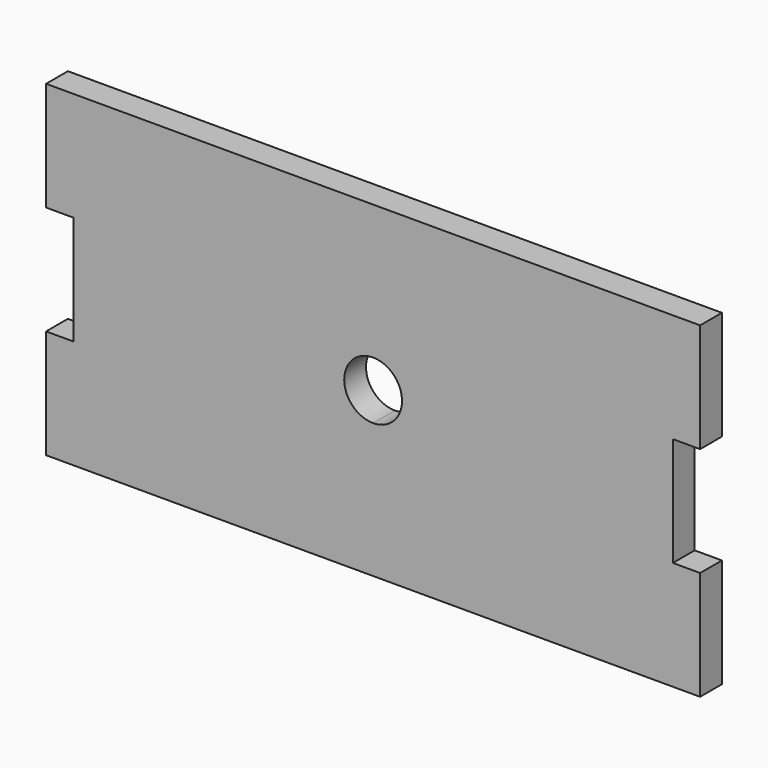
from build123d import *

# Parameters (mm, degrees)
F0_W     = 3.175
F0_H     = 12.7
F1_DEPTH = 3.175


with BuildPart() as f1:
    # F0 (on Front) → F1 (new body)
    with BuildSketch(Plane.XZ):
        with Locations((-74.6125, 6.35)):
            Rectangle(F0_W, F0_H)
        with BuildLine():
            Line((-73.025, 0), (-38.1, 0))
            Line((-38.1, 0), (-38.1, 15.6845))
            ThreePointArc((-38.1, 15.6845), (-41.4655, 19.05), (-38.1, 22.4155))
            Line((-38.1, 22.4155), (-38.1, 38.1))
            Line((-38.1, 38.1), (-73.025, 38.1))
            Line((-73.025, 38.1), (-73.025, 25.4))
            Line((-73.025, 25.4), (-73.025, 12.7))
            Line((-73.025, 12.7), (-73.025, 0))
        make_face()
        with Locations((-74.6125, 31.75)):
            Rectangle(F0_W, F0_H)
        with BuildLine():
            Line((-38.1, 0), (-3.175, 0))
            Line((-3.175, 0), (-3.175, 12.7))
            Line((-3.175, 12.7), (-3.175, 25.4))
            Line((-3.175, 25.4), (-3.175, 38.1))
            Line((-3.175, 38.1), (-38.1, 38.1))
            Line((-38.1, 38.1), (-38.1, 22.4155))
            ThreePointArc((-38.1, 22.4155), (-35.720232, 21.429768), (-34.7345, 19.05))
            ThreePointArc((-34.7345, 19.05), (-35.720232, 16.670232), (-38.1, 15.6845))
            Line((-38.1, 15.6845), (-38.1, 0))
        make_face()
        with Locations((-1.5875, 6.35)):
            Rectangle(F0_W, F0_H)
        with Locations((-1.5875, 31.75)):
            Rectangle(F0_W, F0_H)
    extrude(amount=F1_DEPTH)


solid = f1.part
